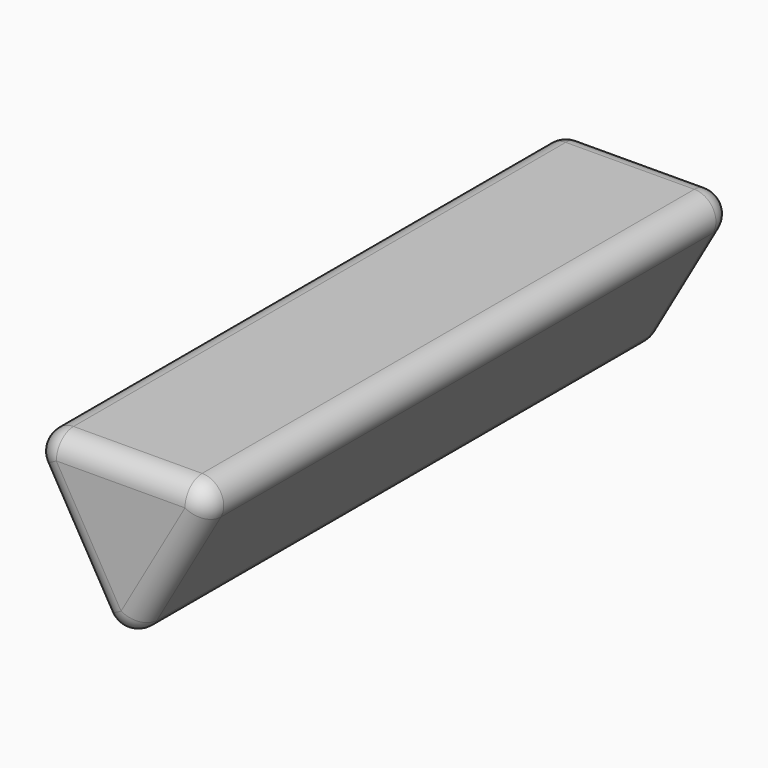
from build123d import *

# Parameters (mm, degrees)
F1_DEPTH = 76.4
F2_R     = 5


with BuildPart() as f1:
    # F0 (on Front) → F1 (new body, symmetric)
    with BuildSketch(Plane.XZ):
        Polygon((23.964551, 12.702267), (-23.207255, 12.520527), (0.53604, -28.240586), align=None)
    extrude(amount=F1_DEPTH, both=True)

    # F2
    f2_edges = [f1.edges().sort_by_distance(p)[0] for p in [
        (0.378648, -76.4, 12.611397),
        (-11.335608, -76.4, -7.860029),
        (12.250295, -76.4, -7.769159),
        (0.378648, 76.4, 12.611397),
        (-11.335608, 76.4, -7.860029),
        (12.250295, 76.4, -7.769159),
        (-23.207255, 0, 12.520527),
        (0.53604, 0, -28.240586),
        (23.964551, 0, 12.702267),
    ]]
    fillet(f2_edges, radius=F2_R)


solid = f1.part
